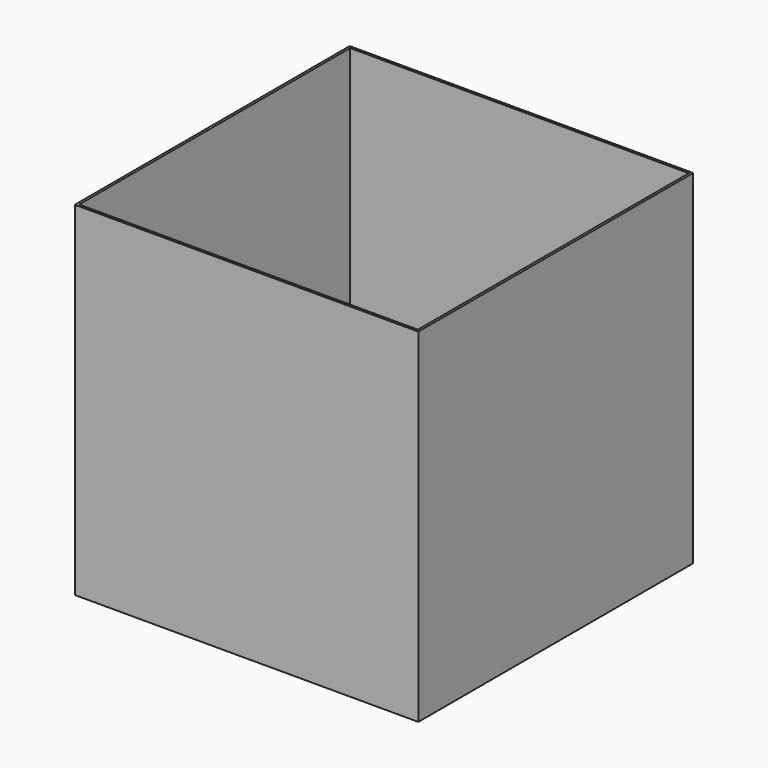
from build123d import *

# Parameters (mm, degrees)
F0_W     = 85
F0_H     = 85
F1_DEPTH = 85
F2_T     = -0.6
F3_R     = 24.5
F4_DEPTH = 25


with BuildPart() as f1:
    # F0 (on Top) → F1 (new body)
    with BuildSketch(Plane.XY):
        Rectangle(F0_W, F0_H)
    extrude(amount=F1_DEPTH)

    # F2
    f2_openings = [f1.faces().sort_by_distance(p)[0] for p in [
        (0, 0, 85),
    ]]
    offset(amount=F2_T, openings=f2_openings)

    # F3 (on Top) → F4 (cut)
    with BuildSketch(Plane.XY):
        Circle(F3_R)
    extrude(amount=F4_DEPTH, mode=Mode.SUBTRACT)


solid = f1.part
